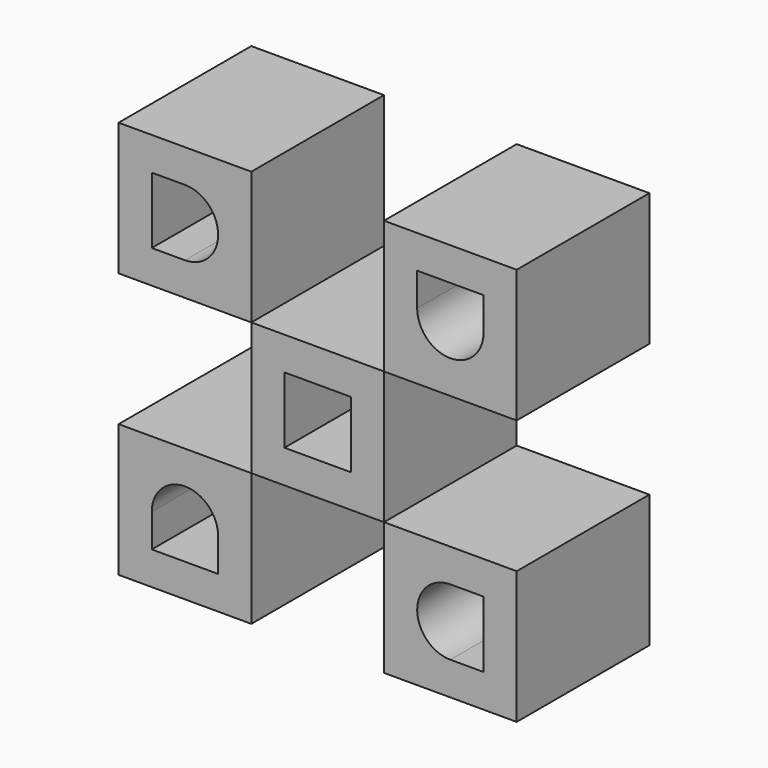
from build123d import *

# Parameters (mm, degrees)
F0_W     = 20
F0_H     = 20
F0_W_2   = 10
F0_H_2   = 10
F1_DEPTH = 25
F2_DEPTH = 25


with BuildPart() as f1:
    # F0 (on Front) → F1 (new body)
    with BuildSketch(Plane.XZ):
        with Locations((10, 10)):
            Rectangle(F0_W, F0_H)
        with Locations((10, 10)):
            Rectangle(F0_W_2, F0_H_2, mode=Mode.SUBTRACT)
        with Locations((30, -10)):
            Rectangle(F0_W, F0_H)
        with BuildLine():
            Line((35, -5), (35, -15))
            Line((35, -15), (30, -15))
            ThreePointArc((30, -15), (25, -10), (30, -5))
            Line((30, -5), (35, -5))
        make_face(mode=Mode.SUBTRACT)
        with Locations((-10, 30)):
            Rectangle(F0_W, F0_H)
        with BuildLine():
            ThreePointArc((-10, 35), (-5, 30), (-10, 25))
            Line((-10, 25), (-15, 25))
            Line((-15, 25), (-15, 35))
            Line((-15, 35), (-10, 35))
        make_face(mode=Mode.SUBTRACT)
        with Locations((-10, -10)):
            Rectangle(F0_W, F0_H)
        with BuildLine():
            Line((-5, -10), (-5, -15))
            Line((-5, -15), (-15, -15))
            Line((-15, -15), (-15, -10))
            ThreePointArc((-15, -10), (-10, -5), (-5, -10))
        make_face(mode=Mode.SUBTRACT)
        with Locations((30, 30)):
            Rectangle(F0_W, F0_H)
        with BuildLine():
            Line((25, 35), (35, 35))
            Line((35, 35), (35, 30))
            ThreePointArc((35, 30), (30, 25), (25, 30))
            Line((25, 30), (25, 35))
        make_face(mode=Mode.SUBTRACT)
    extrude(amount=F1_DEPTH)


with BuildPart() as f2:
    # F0 (on Front) → F2 (new body)
    with BuildSketch(Plane.XZ):
        with Locations((10, 10)):
            Rectangle(F0_W, F0_H)
        with Locations((10, 10)):
            Rectangle(F0_W_2, F0_H_2, mode=Mode.SUBTRACT)
        with Locations((-10, 30)):
            Rectangle(F0_W, F0_H)
        with BuildLine():
            ThreePointArc((-10, 35), (-5, 30), (-10, 25))
            Line((-10, 25), (-15, 25))
            Line((-15, 25), (-15, 35))
            Line((-15, 35), (-10, 35))
        make_face(mode=Mode.SUBTRACT)
        with Locations((30, 30)):
            Rectangle(F0_W, F0_H)
        with BuildLine():
            Line((25, 35), (35, 35))
            Line((35, 35), (35, 30))
            ThreePointArc((35, 30), (30, 25), (25, 30))
            Line((25, 30), (25, 35))
        make_face(mode=Mode.SUBTRACT)
        with Locations((30, -10)):
            Rectangle(F0_W, F0_H)
        with BuildLine():
            Line((35, -5), (35, -15))
            Line((35, -15), (30, -15))
            ThreePointArc((30, -15), (25, -10), (30, -5))
            Line((30, -5), (35, -5))
        make_face(mode=Mode.SUBTRACT)
        with Locations((-10, -10)):
            Rectangle(F0_W, F0_H)
        with BuildLine():
            Line((-5, -10), (-5, -15))
            Line((-5, -15), (-15, -15))
            Line((-15, -15), (-15, -10))
            ThreePointArc((-15, -10), (-10, -5), (-5, -10))
        make_face(mode=Mode.SUBTRACT)
    extrude(amount=F2_DEPTH)


solid = Compound([f1.part, f2.part])
